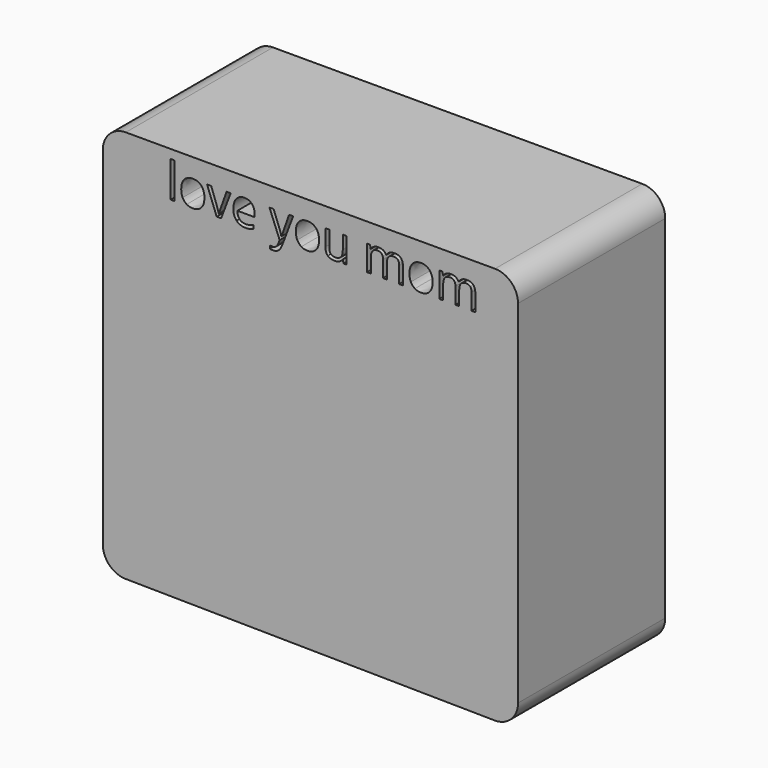
from build123d import *

# Parameters (mm, degrees)
F0_W     = 1.0563280351
F0_H     = 9.8977326294
F1_DEPTH = 25.4


with BuildPart() as f1:
    # F0 (on Front) → F1 (new body, symmetric)
    with BuildSketch(Plane.XZ):
        with BuildLine():
            ThreePointArc((54.6605959535, 47.2812162876), (52.800724014, 51.7713443481), (48.3105959535, 53.6312162876))
            Line((48.3105959535, 53.6312162876), (-53.6634320557, 53.6312162876))
            ThreePointArc((-53.6634320557, 53.6312162876), (-58.1535601162, 51.7713443481), (-60.0134320557, 47.2812162876))
            Line((-60.0134320557, 47.2812162876), (-60.0134320557, -48.5946021572))
            ThreePointArc((-60.0134320557, -48.5946021572), (-58.1812656538, -53.0568526634), (-53.7420369123, -54.9441156249))
            Line((-53.7420369123, -54.9441156249), (48.2319910969, -56.2065200419))
            ThreePointArc((48.2319910969, -56.2065200419), (52.7728464597, -54.3748401722), (54.6605959535, -49.8570065742))
            Line((54.6605959535, -49.8570065742), (54.6605959535, 47.2812162876))
        make_face()
        with Locations((-40.7277989705, 46.2451584111)):
            Rectangle(F0_W, F0_H, mode=Mode.SUBTRACT)
        with BuildLine():
            add(Edge.make_bspline(
                [(-32.8063563643, 47.42156998), (-31.944400829, 46.4476721673), (-31.944400829, 44.7888911488)],
                knots=[0, 0, 0, 1, 1, 1], degree=2))
            add(Edge.make_bspline(
                [(-31.944400829, 44.7888911488), (-31.944400829, 43.0832979053), (-32.8022857361, 42.1256826056)],
                knots=[0, 0, 0, 1, 1, 1], degree=2))
            add(Edge.make_bspline(
                [(-32.8022857361, 42.1256826056), (-33.6601706432, 41.168067306), (-35.1744443582, 41.168067306)],
                knots=[0, 0, 0, 1, 1, 1], degree=2))
            add(Edge.make_bspline(
                [(-35.1744443582, 41.168067306), (-36.1106888595, 41.168067306), (-36.8352606909, 41.6076951587)],
                knots=[0, 0, 0, 1, 1, 1], degree=2))
            add(Edge.make_bspline(
                [(-36.8352606909, 41.6076951587), (-37.5598325223, 42.0473230115), (-37.9546834641, 42.8675546072)],
                knots=[0, 0, 0, 1, 1, 1], degree=2))
            add(Edge.make_bspline(
                [(-37.9546834641, 42.8675546072), (-38.3495344059, 43.6877862028), (-38.3495344059, 44.7888911488)],
                knots=[0, 0, 0, 1, 1, 1], degree=2))
            add(Edge.make_bspline(
                [(-38.3495344059, 44.7888911488), (-38.3495344059, 46.4924490783), (-37.4967377841, 47.4439584355)],
                knots=[0, 0, 0, 1, 1, 1], degree=2))
            add(Edge.make_bspline(
                [(-37.4967377841, 47.4439584355), (-36.6439411624, 48.3954677927), (-35.1296674473, 48.3954677927)],
                knots=[0, 0, 0, 1, 1, 1], degree=2))
            add(Edge.make_bspline(
                [(-35.1296674473, 48.3954677927), (-33.6683118997, 48.3954677927), (-32.8063563643, 47.42156998)],
                knots=[0, 0, 0, 1, 1, 1], degree=2))
        make_face(mode=Mode.SUBTRACT)
        with BuildLine():
            Line((-27.3323790033, 41.2962920964), (-28.565779368, 41.2962920964))
            Line((-28.565779368, 41.2962920964), (-31.211687741, 48.2672430024))
            Line((-31.211687741, 48.2672430024), (-30.080053083, 48.2672430024))
            Line((-30.080053083, 48.2672430024), (-28.5779912528, 44.133519998))
            add(Edge.make_bspline(
                [(-28.5779912528, 44.133519998), (-28.0691627195, 42.682341021), (-27.9796088976, 42.2508544248)],
                knots=[0, 0, 0, 1, 1, 1], degree=2))
            Line((-27.9796088976, 42.2508544248), (-27.9287260443, 42.2508544248))
            add(Edge.make_bspline(
                [(-27.9287260443, 42.2508544248), (-27.8595253638, 42.5866812568), (-27.4870628774, 43.6460622631)],
                knots=[0, 0, 0, 1, 1, 1], degree=2))
            add(Edge.make_bspline(
                [(-27.4870628774, 43.6460622631), (-27.114600391, 44.7054432694), (-25.8181052882, 48.2672430024)],
                knots=[0, 0, 0, 1, 1, 1], degree=2))
            Line((-25.8181052882, 48.2672430024), (-24.6864706302, 48.2672430024))
            Line((-24.6864706302, 48.2672430024), (-27.3323790033, 41.2962920964))
        make_face(mode=Mode.SUBTRACT)
        with BuildLine():
            add(Edge.make_bspline(
                [(-19.4170423395, 41.2739036409), (-19.9156943021, 41.168067306), (-20.6219483063, 41.168067306)],
                knots=[0, 0, 0, 1, 1, 1], degree=2))
            add(Edge.make_bspline(
                [(-20.6219483063, 41.168067306), (-22.1667517334, 41.168067306), (-23.0612722949, 42.1104177496)],
                knots=[0, 0, 0, 1, 1, 1], degree=2))
            add(Edge.make_bspline(
                [(-23.0612722949, 42.1104177496), (-23.9557928564, 43.0527681933), (-23.9557928564, 44.7237610966)],
                knots=[0, 0, 0, 1, 1, 1], degree=2))
            add(Edge.make_bspline(
                [(-23.9557928564, 44.7237610966), (-23.9557928564, 46.4110365129), (-23.1253846901, 47.4032521528)],
                knots=[0, 0, 0, 1, 1, 1], degree=2))
            add(Edge.make_bspline(
                [(-23.1253846901, 47.4032521528), (-22.2949765238, 48.3954677927), (-20.8946804002, 48.3954677927)],
                knots=[0, 0, 0, 1, 1, 1], degree=2))
            add(Edge.make_bspline(
                [(-20.8946804002, 48.3954677927), (-19.5859734126, 48.3954677927), (-18.8227306127, 47.5335122574)],
                knots=[0, 0, 0, 1, 1, 1], degree=2))
            add(Edge.make_bspline(
                [(-18.8227306127, 47.5335122574), (-18.0594878127, 46.671556722), (-18.0594878127, 45.2590487136)],
                knots=[0, 0, 0, 1, 1, 1], degree=2))
            Line((-18.0594878127, 45.2590487136), (-18.0594878127, 44.5914656779))
            Line((-18.0594878127, 44.5914656779), (-22.8607938528, 44.5914656779))
            add(Edge.make_bspline(
                [(-22.8607938528, 44.5914656779), (-22.8282288267, 43.3641712556), (-22.2400230422, 42.728135589)],
                knots=[0, 0, 0, 1, 1, 1], degree=2))
            add(Edge.make_bspline(
                [(-22.2400230422, 42.728135589), (-21.6518172577, 42.0920999224), (-20.5832773378, 42.0920999224)],
                knots=[0, 0, 0, 1, 1, 1], degree=2))
            add(Edge.make_bspline(
                [(-20.5832773378, 42.0920999224), (-19.4577486222, 42.0920999224), (-18.3586789903, 42.5622574872)],
                knots=[0, 0, 0, 1, 1, 1], degree=2))
            Line((-18.3586789903, 42.5622574872), (-18.3586789903, 41.6199070435))
            add(Edge.make_bspline(
                [(-18.3586789903, 41.6199070435), (-18.9183903769, 41.3797399758), (-19.4170423395, 41.2739036409)],
                knots=[0, 0, 0, 1, 1, 1], degree=2))
        make_face(mode=Mode.SUBTRACT)
        with BuildLine():
            Line((-11.1679141579, 41.2576211278), (-13.9807182899, 48.2672430024))
            Line((-13.9807182899, 48.2672430024), (-12.8470483178, 48.2672430024))
            Line((-12.8470483178, 48.2672430024), (-11.3205627179, 44.2922745003))
            add(Edge.make_bspline(
                [(-11.3205627179, 44.2922745003), (-10.8198754412, 42.9306493453), (-10.6977565932, 42.3261610477)],
                knots=[0, 0, 0, 1, 1, 1], degree=2))
            Line((-10.6977565932, 42.3261610477), (-10.6468737399, 42.3261610477))
            add(Edge.make_bspline(
                [(-10.6468737399, 42.3261610477), (-10.5654611745, 42.651811309), (-10.3008703372, 43.4374425644)],
                knots=[0, 0, 0, 1, 1, 1], degree=2))
            add(Edge.make_bspline(
                [(-10.3008703372, 43.4374425644), (-10.0362794999, 44.2230738198), (-8.5728886382, 48.2672430024)],
                knots=[0, 0, 0, 1, 1, 1], degree=2))
            Line((-8.5728886382, 48.2672430024), (-7.4412539802, 48.2672430024))
            Line((-7.4412539802, 48.2672430024), (-10.4372363842, 40.3295178831))
            add(Edge.make_bspline(
                [(-10.4372363842, 40.3295178831), (-10.8829701793, 39.1531063142), (-11.4772819062, 38.6595426369)],
                knots=[0, 0, 0, 1, 1, 1], degree=2))
            add(Edge.make_bspline(
                [(-11.4772819062, 38.6595426369), (-12.0715936331, 38.1659789596), (-12.9366021396, 38.1659789596)],
                knots=[0, 0, 0, 1, 1, 1], degree=2))
            add(Edge.make_bspline(
                [(-12.9366021396, 38.1659789596), (-13.4210069033, 38.1659789596), (-13.8911644681, 38.2758859228)],
                knots=[0, 0, 0, 1, 1, 1], degree=2))
            Line((-13.8911644681, 38.2758859228), (-13.8911644681, 39.1205412881))
            add(Edge.make_bspline(
                [(-13.8911644681, 39.1205412881), (-13.5410904372, 39.0452346651), (-13.109603841, 39.0452346651)],
                knots=[0, 0, 0, 1, 1, 1], degree=2))
            add(Edge.make_bspline(
                [(-13.109603841, 39.0452346651), (-12.0207107797, 39.0452346651), (-11.5566591574, 40.266423145)],
                knots=[0, 0, 0, 1, 1, 1], degree=2))
            Line((-11.5566591574, 40.266423145), (-11.1679141579, 41.2576211278))
        make_face(mode=Mode.SUBTRACT)
        with BuildLine():
            add(Edge.make_bspline(
                [(-1.15518628, 47.42156998), (-0.2932307446, 46.4476721673), (-0.2932307446, 44.7888911488)],
                knots=[0, 0, 0, 1, 1, 1], degree=2))
            add(Edge.make_bspline(
                [(-0.2932307446, 44.7888911488), (-0.2932307446, 43.0832979053), (-1.1511156517, 42.1256826056)],
                knots=[0, 0, 0, 1, 1, 1], degree=2))
            add(Edge.make_bspline(
                [(-1.1511156517, 42.1256826056), (-2.0090005589, 41.168067306), (-3.5232742739, 41.168067306)],
                knots=[0, 0, 0, 1, 1, 1], degree=2))
            add(Edge.make_bspline(
                [(-3.5232742739, 41.168067306), (-4.4595187751, 41.168067306), (-5.1840906065, 41.6076951587)],
                knots=[0, 0, 0, 1, 1, 1], degree=2))
            add(Edge.make_bspline(
                [(-5.1840906065, 41.6076951587), (-5.9086624379, 42.0473230115), (-6.3035133798, 42.8675546072)],
                knots=[0, 0, 0, 1, 1, 1], degree=2))
            add(Edge.make_bspline(
                [(-6.3035133798, 42.8675546072), (-6.6983643216, 43.6877862028), (-6.6983643216, 44.7888911488)],
                knots=[0, 0, 0, 1, 1, 1], degree=2))
            add(Edge.make_bspline(
                [(-6.6983643216, 44.7888911488), (-6.6983643216, 46.4924490783), (-5.8455676998, 47.4439584355)],
                knots=[0, 0, 0, 1, 1, 1], degree=2))
            add(Edge.make_bspline(
                [(-5.8455676998, 47.4439584355), (-4.992771078, 48.3954677927), (-3.478497363, 48.3954677927)],
                knots=[0, 0, 0, 1, 1, 1], degree=2))
            add(Edge.make_bspline(
                [(-3.478497363, 48.3954677927), (-2.0171418154, 48.3954677927), (-1.15518628, 47.42156998)],
                knots=[0, 0, 0, 1, 1, 1], degree=2))
        make_face(mode=Mode.SUBTRACT)
        with BuildLine():
            Line((1.4835984936, 48.2672430024), (2.5521384135, 48.2672430024))
            Line((2.5521384135, 48.2672430024), (2.5521384135, 43.7447749985))
            add(Edge.make_bspline(
                [(2.5521384135, 43.7447749985), (2.5521384135, 42.8919783768), (2.9398657559, 42.4727036653)],
                knots=[0, 0, 0, 1, 1, 1], degree=2))
            add(Edge.make_bspline(
                [(2.9398657559, 42.4727036653), (3.3275930982, 42.0534289539), (4.1539306363, 42.0534289539)],
                knots=[0, 0, 0, 1, 1, 1], degree=2))
            add(Edge.make_bspline(
                [(4.1539306363, 42.0534289539), (5.2489296399, 42.0534289539), (5.7536875449, 42.650793652)],
                knots=[0, 0, 0, 1, 1, 1], degree=2))
            add(Edge.make_bspline(
                [(5.7536875449, 42.650793652), (6.2584454499, 43.2481583501), (6.2584454499, 44.6036775627)],
                knots=[0, 0, 0, 1, 1, 1], degree=2))
            Line((6.2584454499, 44.6036775627), (6.2584454499, 48.2672430024))
            Line((6.2584454499, 48.2672430024), (7.314773485, 48.2672430024))
            Line((7.314773485, 48.2672430024), (7.314773485, 41.2962920964))
            Line((7.314773485, 41.2962920964), (6.443659036, 41.2962920964))
            Line((6.443659036, 41.2962920964), (6.2910104761, 42.2305012835))
            Line((6.2910104761, 42.2305012835), (6.2340216803, 42.2305012835))
            add(Edge.make_bspline(
                [(6.2340216803, 42.2305012835), (5.9104067332, 41.7155668078), (5.3344128335, 41.4418170569)],
                knots=[0, 0, 0, 1, 1, 1], degree=2))
            add(Edge.make_bspline(
                [(5.3344128335, 41.4418170569), (4.7584189338, 41.168067306), (4.0195999035, 41.168067306)],
                knots=[0, 0, 0, 1, 1, 1], degree=2))
            add(Edge.make_bspline(
                [(4.0195999035, 41.168067306), (2.7475285703, 41.168067306), (2.1155635319, 41.7725556035)],
                knots=[0, 0, 0, 1, 1, 1], degree=2))
            add(Edge.make_bspline(
                [(2.1155635319, 41.7725556035), (1.4835984936, 42.3770439011), (1.4835984936, 43.70610403)],
                knots=[0, 0, 0, 1, 1, 1], degree=2))
            Line((1.4835984936, 43.70610403), (1.4835984936, 48.2672430024))
        make_face(mode=Mode.SUBTRACT)
        with BuildLine():
            Line((22.8788206611, 41.2962920964), (21.8245279401, 41.2962920964))
            Line((21.8245279401, 41.2962920964), (21.8245279401, 45.830971985))
            add(Edge.make_bspline(
                [(21.8245279401, 45.830971985), (21.8245279401, 46.6654507796), (21.4683479668, 47.0816725198)],
                knots=[0, 0, 0, 1, 1, 1], degree=2))
            add(Edge.make_bspline(
                [(21.4683479668, 47.0816725198), (21.1121679935, 47.49789426), (20.3611370784, 47.49789426)],
                knots=[0, 0, 0, 1, 1, 1], degree=2))
            add(Edge.make_bspline(
                [(20.3611370784, 47.49789426), (19.376045038, 47.49789426), (18.9048698161, 46.932076931)],
                knots=[0, 0, 0, 1, 1, 1], degree=2))
            add(Edge.make_bspline(
                [(18.9048698161, 46.932076931), (18.4336945943, 46.366259602), (18.4336945943, 45.1898480331)],
                knots=[0, 0, 0, 1, 1, 1], degree=2))
            Line((18.4336945943, 45.1898480331), (18.4336945943, 41.2962920964))
            Line((18.4336945943, 41.2962920964), (17.3773665592, 41.2962920964))
            Line((17.3773665592, 41.2962920964), (17.3773665592, 45.830971985))
            add(Edge.make_bspline(
                [(17.3773665592, 45.830971985), (17.3773665592, 46.6654507796), (17.0211865859, 47.0816725198)],
                knots=[0, 0, 0, 1, 1, 1], degree=2))
            add(Edge.make_bspline(
                [(17.0211865859, 47.0816725198), (16.6650066126, 47.49789426), (15.9078697551, 47.49789426)],
                knots=[0, 0, 0, 1, 1, 1], degree=2))
            add(Edge.make_bspline(
                [(15.9078697551, 47.49789426), (14.9166717723, 47.49789426), (14.4556731211, 46.9035825332)],
                knots=[0, 0, 0, 1, 1, 1], degree=2))
            add(Edge.make_bspline(
                [(14.4556731211, 46.9035825332), (13.99467447, 46.3092708063), (13.99467447, 44.9537515936)],
                knots=[0, 0, 0, 1, 1, 1], degree=2))
            Line((13.99467447, 44.9537515936), (13.99467447, 41.2962920964))
            Line((13.99467447, 41.2962920964), (12.9383464349, 41.2962920964))
            Line((12.9383464349, 41.2962920964), (12.9383464349, 48.2672430024))
            Line((12.9383464349, 48.2672430024), (13.7972489991, 48.2672430024))
            Line((13.7972489991, 48.2672430024), (13.9682153862, 47.3126806739))
            Line((13.9682153862, 47.3126806739), (14.0190982396, 47.3126806739))
            add(Edge.make_bspline(
                [(14.0190982396, 47.3126806739), (14.3182894171, 47.8215092072), (14.8627359477, 48.1084885)],
                knots=[0, 0, 0, 1, 1, 1], degree=2))
            add(Edge.make_bspline(
                [(14.8627359477, 48.1084885), (15.4071824784, 48.3954677927), (16.0808714564, 48.3954677927)],
                knots=[0, 0, 0, 1, 1, 1], degree=2))
            add(Edge.make_bspline(
                [(16.0808714564, 48.3954677927), (17.7152287053, 48.3954677927), (18.2179512962, 47.2109149673)],
                knots=[0, 0, 0, 1, 1, 1], degree=2))
            Line((18.2179512962, 47.2109149673), (18.2688341495, 47.2109149673))
            add(Edge.make_bspline(
                [(18.2688341495, 47.2109149673), (18.5802372119, 47.7584144691), (19.1714959676, 48.0769411309)],
                knots=[0, 0, 0, 1, 1, 1], degree=2))
            add(Edge.make_bspline(
                [(19.1714959676, 48.0769411309), (19.7627547233, 48.3954677927), (20.5198915808, 48.3954677927)],
                knots=[0, 0, 0, 1, 1, 1], degree=2))
            add(Edge.make_bspline(
                [(20.5198915808, 48.3954677927), (21.7024090921, 48.3954677927), (22.2906148766, 47.787926524)],
                knots=[0, 0, 0, 1, 1, 1], degree=2))
            add(Edge.make_bspline(
                [(22.2906148766, 47.787926524), (22.8788206611, 47.1803852553), (22.8788206611, 45.8431838698)],
                knots=[0, 0, 0, 1, 1, 1], degree=2))
            Line((22.8788206611, 45.8431838698), (22.8788206611, 41.2962920964))
        make_face(mode=Mode.SUBTRACT)
        with BuildLine():
            add(Edge.make_bspline(
                [(30.2090045116, 47.42156998), (31.0709600469, 46.4476721673), (31.0709600469, 44.7888911488)],
                knots=[0, 0, 0, 1, 1, 1], degree=2))
            add(Edge.make_bspline(
                [(31.0709600469, 44.7888911488), (31.0709600469, 43.0832979053), (30.2130751398, 42.1256826056)],
                knots=[0, 0, 0, 1, 1, 1], degree=2))
            add(Edge.make_bspline(
                [(30.2130751398, 42.1256826056), (29.3551902327, 41.168067306), (27.8409165177, 41.168067306)],
                knots=[0, 0, 0, 1, 1, 1], degree=2))
            add(Edge.make_bspline(
                [(27.8409165177, 41.168067306), (26.9046720164, 41.168067306), (26.180100185, 41.6076951587)],
                knots=[0, 0, 0, 1, 1, 1], degree=2))
            add(Edge.make_bspline(
                [(26.180100185, 41.6076951587), (25.4555283536, 42.0473230115), (25.0606774118, 42.8675546072)],
                knots=[0, 0, 0, 1, 1, 1], degree=2))
            add(Edge.make_bspline(
                [(25.0606774118, 42.8675546072), (24.66582647, 43.6877862028), (24.66582647, 44.7888911488)],
                knots=[0, 0, 0, 1, 1, 1], degree=2))
            add(Edge.make_bspline(
                [(24.66582647, 44.7888911488), (24.66582647, 46.4924490783), (25.5186230918, 47.4439584355)],
                knots=[0, 0, 0, 1, 1, 1], degree=2))
            add(Edge.make_bspline(
                [(25.5186230918, 47.4439584355), (26.3714197135, 48.3954677927), (27.8856934286, 48.3954677927)],
                knots=[0, 0, 0, 1, 1, 1], degree=2))
            add(Edge.make_bspline(
                [(27.8856934286, 48.3954677927), (29.3470489762, 48.3954677927), (30.2090045116, 47.42156998)],
                knots=[0, 0, 0, 1, 1, 1], degree=2))
        make_face(mode=Mode.SUBTRACT)
        with BuildLine():
            Line((42.8635701343, 41.2962920964), (41.8092774133, 41.2962920964))
            Line((41.8092774133, 41.2962920964), (41.8092774133, 45.830971985))
            add(Edge.make_bspline(
                [(41.8092774133, 45.830971985), (41.8092774133, 46.6654507796), (41.4530974401, 47.0816725198)],
                knots=[0, 0, 0, 1, 1, 1], degree=2))
            add(Edge.make_bspline(
                [(41.4530974401, 47.0816725198), (41.0969174668, 47.49789426), (40.3458865516, 47.49789426)],
                knots=[0, 0, 0, 1, 1, 1], degree=2))
            add(Edge.make_bspline(
                [(40.3458865516, 47.49789426), (39.3607945112, 47.49789426), (38.8896192894, 46.932076931)],
                knots=[0, 0, 0, 1, 1, 1], degree=2))
            add(Edge.make_bspline(
                [(38.8896192894, 46.932076931), (38.4184440676, 46.366259602), (38.4184440676, 45.1898480331)],
                knots=[0, 0, 0, 1, 1, 1], degree=2))
            Line((38.4184440676, 45.1898480331), (38.4184440676, 41.2962920964))
            Line((38.4184440676, 41.2962920964), (37.3621160325, 41.2962920964))
            Line((37.3621160325, 41.2962920964), (37.3621160325, 45.830971985))
            add(Edge.make_bspline(
                [(37.3621160325, 45.830971985), (37.3621160325, 46.6654507796), (37.0059360592, 47.0816725198)],
                knots=[0, 0, 0, 1, 1, 1], degree=2))
            add(Edge.make_bspline(
                [(37.0059360592, 47.0816725198), (36.6497560859, 47.49789426), (35.8926192283, 47.49789426)],
                knots=[0, 0, 0, 1, 1, 1], degree=2))
            add(Edge.make_bspline(
                [(35.8926192283, 47.49789426), (34.9014212455, 47.49789426), (34.4404225943, 46.9035825332)],
                knots=[0, 0, 0, 1, 1, 1], degree=2))
            add(Edge.make_bspline(
                [(34.4404225943, 46.9035825332), (33.9794239432, 46.3092708063), (33.9794239432, 44.9537515936)],
                knots=[0, 0, 0, 1, 1, 1], degree=2))
            Line((33.9794239432, 44.9537515936), (33.9794239432, 41.2962920964))
            Line((33.9794239432, 41.2962920964), (32.9230959081, 41.2962920964))
            Line((32.9230959081, 41.2962920964), (32.9230959081, 48.2672430024))
            Line((32.9230959081, 48.2672430024), (33.7819984723, 48.2672430024))
            Line((33.7819984723, 48.2672430024), (33.9529648595, 47.3126806739))
            Line((33.9529648595, 47.3126806739), (34.0038477128, 47.3126806739))
            add(Edge.make_bspline(
                [(34.0038477128, 47.3126806739), (34.3030388904, 47.8215092072), (34.847485421, 48.1084885)],
                knots=[0, 0, 0, 1, 1, 1], degree=2))
            add(Edge.make_bspline(
                [(34.847485421, 48.1084885), (35.3919319516, 48.3954677927), (36.0656209296, 48.3954677927)],
                knots=[0, 0, 0, 1, 1, 1], degree=2))
            add(Edge.make_bspline(
                [(36.0656209296, 48.3954677927), (37.6999781786, 48.3954677927), (38.2027007694, 47.2109149673)],
                knots=[0, 0, 0, 1, 1, 1], degree=2))
            Line((38.2027007694, 47.2109149673), (38.2535836228, 47.2109149673))
            add(Edge.make_bspline(
                [(38.2535836228, 47.2109149673), (38.5649866851, 47.7584144691), (39.1562454408, 48.0769411309)],
                knots=[0, 0, 0, 1, 1, 1], degree=2))
            add(Edge.make_bspline(
                [(39.1562454408, 48.0769411309), (39.7475041965, 48.3954677927), (40.504641054, 48.3954677927)],
                knots=[0, 0, 0, 1, 1, 1], degree=2))
            add(Edge.make_bspline(
                [(40.504641054, 48.3954677927), (41.6871585654, 48.3954677927), (42.2753643498, 47.787926524)],
                knots=[0, 0, 0, 1, 1, 1], degree=2))
            add(Edge.make_bspline(
                [(42.2753643498, 47.787926524), (42.8635701343, 47.1803852553), (42.8635701343, 45.8431838698)],
                knots=[0, 0, 0, 1, 1, 1], degree=2))
            Line((42.8635701343, 45.8431838698), (42.8635701343, 41.2962920964))
        make_face(mode=Mode.SUBTRACT)
    extrude(amount=F1_DEPTH, both=True)


solid = f1.part
